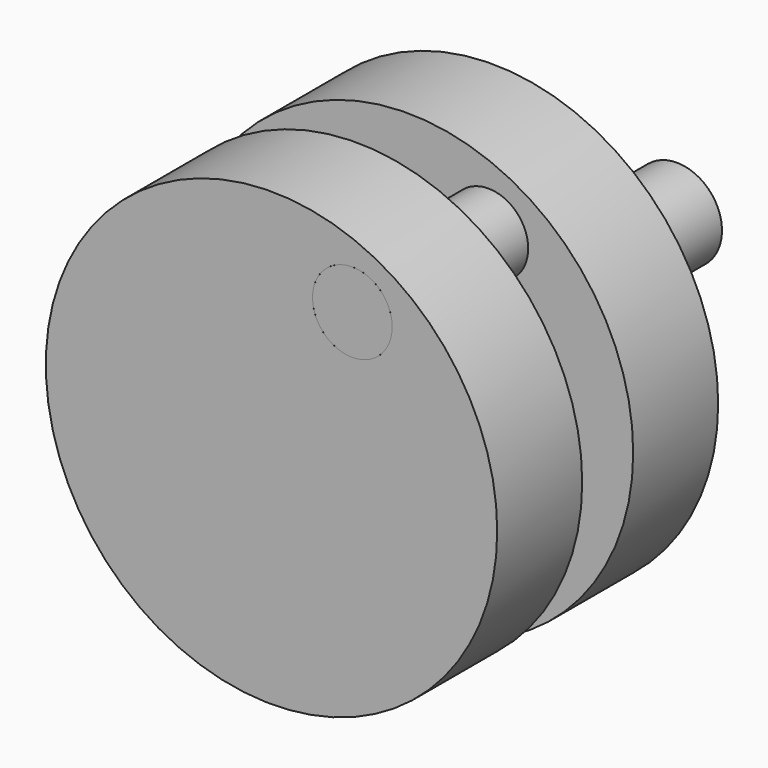
from build123d import *

# Parameters (mm, degrees)
F0_R       = 42.5
F1_DEPTH   = 20
F3_R       = 42.5
F4_DEPTH   = 20
F5_R       = 8.5
F6_DEPTH   = 43.4
F8_D       = 15
F8_DEPTH   = 80
F8_2_D     = 15
F8_2_DEPTH = 80
F9_R       = 7.5
F10_DEPTH  = 52


with BuildPart() as f1:
    # F0 (on Front) → F1 (new body)
    with BuildSketch(Plane.XZ):
        Circle(F0_R)
    extrude(amount=F1_DEPTH)

    # F5 (on face) → F6 (join)
    with BuildSketch(Plane(origin=(0, 0, 0), x_dir=(-1, 0, 0), z_dir=(0, 1, 0))):
        Circle(F5_R)
    extrude(amount=F6_DEPTH)

    # F8
    with Locations(Plane.XZ.offset(52)):
        with Locations((15.223749, 27.440336)):
            Hole(F8_D / 2, depth=F8_DEPTH)


with BuildPart() as f4:
    # F3 (on offset) → F4 (new body)
    with BuildSketch(Plane.XZ.offset(32)):
        Circle(F3_R)
    extrude(amount=F4_DEPTH)

    # F8#2
    with Locations(Plane.XZ.offset(52)):
        with Locations((15.223749, 27.440336)):
            Hole(F8_2_D / 2, depth=F8_2_DEPTH)


with BuildPart() as f10:
    # F9 (on face) → F10 (new body)
    with BuildSketch(Plane.XZ.offset(52)):
        with Locations((15.223749, 27.440336)):
            Circle(F9_R)
    extrude(amount=-F10_DEPTH)


solid = Compound([f1.part, f4.part, f10.part])
